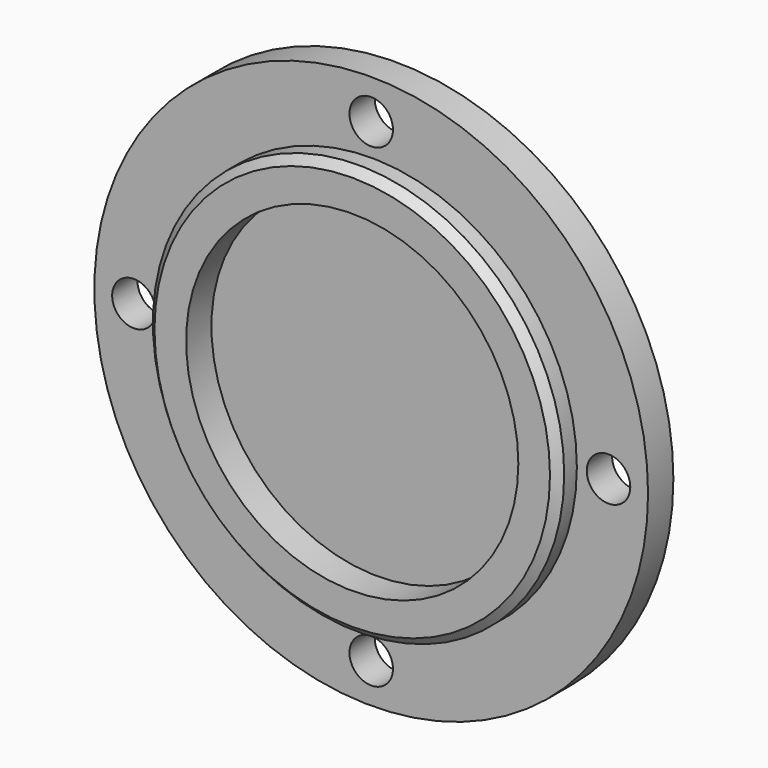
from build123d import *

# Parameters (mm, degrees)
F0_R     = 35
F1_DEPTH = 4
F2_R     = 2.75
F3_DEPTH = 4
F4_R     = 26
F5_DEPTH = 3
F6_R     = 21
F7_DEPTH = 4
F8_SIZE  = 1


with BuildPart() as f1:
    # F0 (on Front) → F1 (new body)
    with BuildSketch(Plane.XZ):
        Circle(F0_R)
    extrude(amount=F1_DEPTH)

    # F2 (on face) → F3 (cut, through all)
    with BuildSketch(Plane.XZ.offset(4)):
        with Locations((30, 0)):
            Circle(F2_R)
        with Locations((0, 30)):
            Circle(F2_R)
        with Locations((-30, 0)):
            Circle(F2_R)
        with Locations((0, -30)):
            Circle(F2_R)
    extrude(amount=-F3_DEPTH, mode=Mode.SUBTRACT)

    # F4 (on face) → F5 (join)
    with BuildSketch(Plane.XZ.offset(4)):
        Circle(F4_R)
    extrude(amount=F5_DEPTH)

    # F6 (on face) → F7 (cut)
    with BuildSketch(Plane.XZ.offset(7)):
        Circle(F6_R)
    extrude(amount=-F7_DEPTH, mode=Mode.SUBTRACT)

    # F8
    f8_edges = [f1.edges().sort_by_distance(p)[0] for p in [
        (-26, -7, 0),
    ]]
    chamfer(f8_edges, length=F8_SIZE)


solid = f1.part
